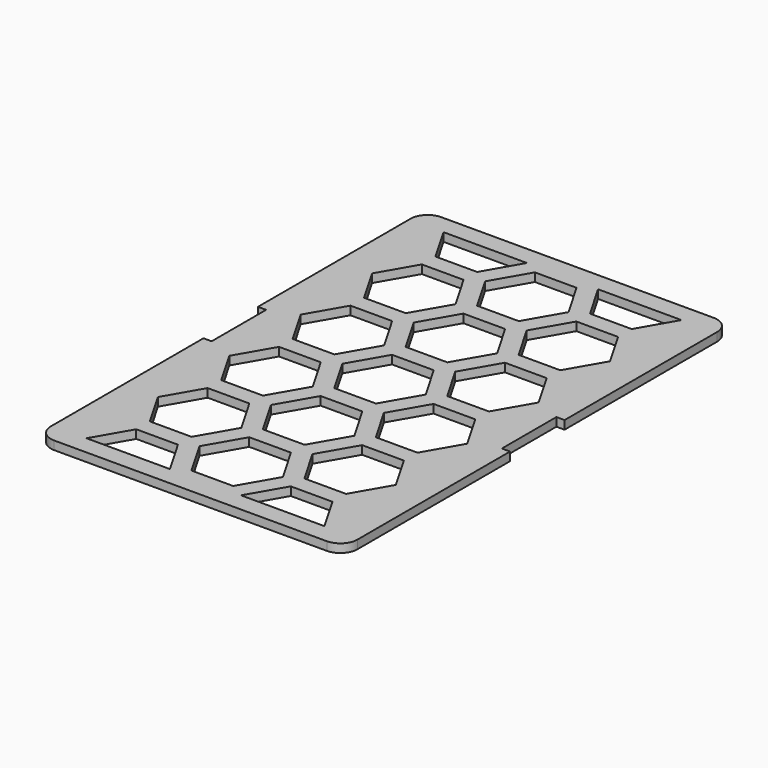
from build123d import *

# Parameters (mm, degrees)
F1_DEPTH = 1.5875


with BuildPart() as f1:
    # F0 (on Top) → F1 (new body)
    with BuildSketch(Plane.XY):
        with BuildLine():
            ThreePointArc((0, 3.175), (0.929936, 0.929936), (3.175, 0))
            Line((3.175, 0), (53.975, 0))
            ThreePointArc((53.975, 0), (56.220064, 0.929936), (57.15, 3.175))
            Line((57.15, 3.175), (57.15, 38.735))
            Line((57.15, 38.735), (55.626, 38.735))
            Line((55.626, 38.735), (55.626, 51.435))
            Line((55.626, 51.435), (57.15, 51.435))
            Line((57.15, 51.435), (57.15, 86.995))
            ThreePointArc((57.15, 86.995), (56.220064, 89.240064), (53.975, 90.17))
            Line((53.975, 90.17), (3.175, 90.17))
            ThreePointArc((3.175, 90.17), (0.929936, 89.240064), (0, 86.995))
            Line((0, 86.995), (0, 51.435))
            Line((0, 51.435), (1.524, 51.435))
            Line((1.524, 51.435), (1.524, 38.735))
            Line((1.524, 38.735), (0, 38.735))
            Line((0, 38.735), (0, 3.175))
        make_face()
        Polygon((10.280791, 10.2235), (18.05308, 10.2235), (21.939225, 3.4925), (6.394646, 3.4925), align=None, mode=Mode.SUBTRACT)
        Polygon((10.280791, 26.8605), (18.05308, 26.8605), (21.939225, 20.1295), (18.05308, 13.3985), (10.280791, 13.3985), (6.394646, 20.1295), align=None, mode=Mode.SUBTRACT)
        Polygon((10.280791, 43.4975), (18.05308, 43.4975), (21.939225, 36.7665), (18.05308, 30.0355), (10.280791, 30.0355), (6.394646, 36.7665), align=None, mode=Mode.SUBTRACT)
        Polygon((36.347289, 11.811), (32.461145, 5.08), (24.688855, 5.08), (20.802711, 11.811), (24.688855, 18.542), (32.461145, 18.542), align=None, mode=Mode.SUBTRACT)
        Polygon((39.084391, 10.2235), (46.85668, 10.2235), (50.742825, 3.4925), (35.198246, 3.4925), align=None, mode=Mode.SUBTRACT)
        Polygon((39.084391, 26.8605), (46.85668, 26.8605), (50.742825, 20.1295), (46.85668, 13.3985), (39.084391, 13.3985), (35.198246, 20.1295), align=None, mode=Mode.SUBTRACT)
        Polygon((36.347289, 28.448), (32.461145, 21.717), (24.688855, 21.717), (20.802711, 28.448), (24.688855, 35.179), (32.461145, 35.179), align=None, mode=Mode.SUBTRACT)
        Polygon((39.084391, 43.4975), (46.85668, 43.4975), (50.742825, 36.7665), (46.85668, 30.0355), (39.084391, 30.0355), (35.198246, 36.7665), align=None, mode=Mode.SUBTRACT)
        Polygon((10.280791, 60.1345), (18.05308, 60.1345), (21.939225, 53.4035), (18.05308, 46.6725), (10.280791, 46.6725), (6.394646, 53.4035), align=None, mode=Mode.SUBTRACT)
        Polygon((6.394646, 70.0405), (10.280791, 76.7715), (18.05308, 76.7715), (21.939225, 70.0405), (18.05308, 63.3095), (10.280791, 63.3095), align=None, mode=Mode.SUBTRACT)
        Polygon((10.280791, 79.9465), (6.394646, 86.6775), (21.939225, 86.6775), (18.05308, 79.9465), align=None, mode=Mode.SUBTRACT)
        Polygon((20.802711, 45.085), (24.688855, 51.816), (32.461145, 51.816), (36.347289, 45.085), (32.461145, 38.354), (24.688855, 38.354), align=None, mode=Mode.SUBTRACT)
        Polygon((24.688855, 54.991), (20.802711, 61.722), (24.688855, 68.453), (32.461145, 68.453), (36.347289, 61.722), (32.461145, 54.991), align=None, mode=Mode.SUBTRACT)
        Polygon((39.084391, 60.1345), (46.85668, 60.1345), (50.742825, 53.4035), (46.85668, 46.6725), (39.084391, 46.6725), (35.198246, 53.4035), align=None, mode=Mode.SUBTRACT)
        Polygon((24.688855, 71.628), (20.802711, 78.359), (24.688855, 85.09), (32.461145, 85.09), (36.347289, 78.359), (32.461145, 71.628), align=None, mode=Mode.SUBTRACT)
        Polygon((39.084391, 76.7715), (46.85668, 76.7715), (50.742825, 70.0405), (46.85668, 63.3095), (39.084391, 63.3095), (35.198246, 70.0405), align=None, mode=Mode.SUBTRACT)
        Polygon((39.084391, 79.9465), (35.198246, 86.6775), (50.742825, 86.6775), (46.85668, 79.9465), align=None, mode=Mode.SUBTRACT)
    extrude(amount=F1_DEPTH)


solid = f1.part
